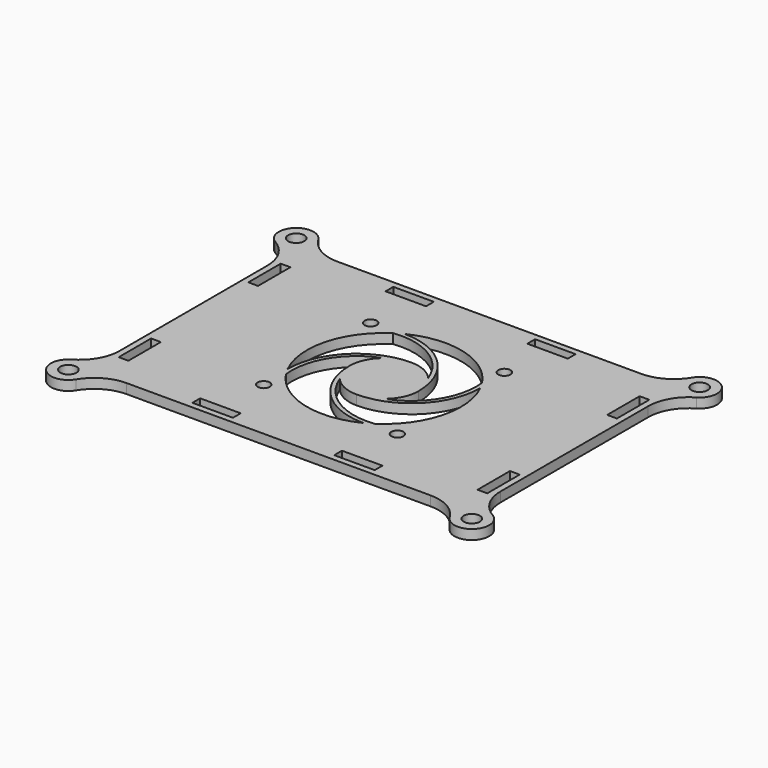
from build123d import *

# Parameters (mm, degrees)
F0_R     = 2
F0_W     = 2.4
F0_H     = 10
F0_W_2   = 10
F0_H_2   = 2.4
F0_R_2   = 1.5
F1_DEPTH = 2.4


with BuildPart() as f1:
    # F0 (on Top) → F1 (new body)
    with BuildSketch(Plane.XY):
        with BuildLine():
            ThreePointArc((46.111466, 37.36014), (42.463054, 33.799465), (37.533481, 32.5))
            Line((37.533481, 32.5), (-37.533481, 32.5))
            ThreePointArc((-37.533481, 32.5), (-42.463054, 33.799465), (-46.111466, 37.36014))
            ThreePointArc((-46.111466, 37.36014), (-52.859026, 38.171979), (-51.965035, 31.434812))
            ThreePointArc((-51.965035, 31.434812), (-48.329658, 27.777326), (-47, 22.794839))
            Line((-47, 22.794839), (-47, 0))
            Line((-47, 0), (-47, -22.794839))
            ThreePointArc((-47, -22.794839), (-48.329658, -27.777326), (-51.965035, -31.434812))
            ThreePointArc((-51.965035, -31.434812), (-52.859026, -38.171979), (-46.111466, -37.36014))
            ThreePointArc((-46.111466, -37.36014), (-42.463054, -33.799465), (-37.533481, -32.5))
            Line((-37.533481, -32.5), (37.533481, -32.5))
            ThreePointArc((37.533481, -32.5), (42.463054, -33.799465), (46.111466, -37.36014))
            ThreePointArc((46.111466, -37.36014), (52.859026, -38.171979), (51.965035, -31.434812))
            ThreePointArc((51.965035, -31.434812), (48.329658, -27.777326), (47, -22.794839))
            Line((47, -22.794839), (47, 22.794839))
            ThreePointArc((47, 22.794839), (48.329658, 27.777326), (51.965035, 31.434812))
            ThreePointArc((51.965035, 31.434812), (52.859026, 38.171979), (46.111466, 37.36014))
        make_face()
        with Locations((-49.8, -35.15)):
            Circle(F0_R, mode=Mode.SUBTRACT)
        with Locations((-44.3, -20)):
            Rectangle(F0_W, F0_H, mode=Mode.SUBTRACT)
        with Locations((-17.5, -29.8)):
            Rectangle(F0_W_2, F0_H_2, mode=Mode.SUBTRACT)
        with Locations((-16.49, -16.5)):
            Circle(F0_R_2, mode=Mode.SUBTRACT)
        with BuildLine():
            ThreePointArc((-15.883599, -10.426471), (-13.617771, -0.10022), (-5.406647, 6.558824))
            ThreePointArc((-5.406647, 6.558824), (-7.687864, 3.625845), (-8.5, 0))
            ThreePointArc((-8.5, 0), (-3.526013, -12.015615), (8.485294, -16.999994))
            ThreePointArc((8.485294, -16.999994), (-4.948387, -18.344303), (-15.883599, -10.426471))
        make_face(mode=Mode.SUBTRACT)
        with Locations((17.5, -29.8)):
            Rectangle(F0_W_2, F0_H_2, mode=Mode.SUBTRACT)
        with Locations((49.8, -35.15)):
            Circle(F0_R, mode=Mode.SUBTRACT)
        with Locations((44.3, -20)):
            Rectangle(F0_W, F0_H, mode=Mode.SUBTRACT)
        with Locations((16.51, -16.5)):
            Circle(F0_R_2, mode=Mode.SUBTRACT)
        with BuildLine():
            ThreePointArc((-6.558824, -5.406647), (-3.625845, -7.687864), (0, -8.5))
            ThreePointArc((0, -8.5), (12.015615, -3.526013), (16.999994, 8.485294))
            ThreePointArc((16.999994, 8.485294), (18.344303, -4.948387), (10.426471, -15.883599))
            ThreePointArc((10.426471, -15.883599), (0.10022, -13.617771), (-6.558824, -5.406647))
        make_face(mode=Mode.SUBTRACT)
        with BuildLine():
            ThreePointArc((-10.426471, 15.883599), (-0.10022, 13.617771), (6.558824, 5.406647))
            ThreePointArc((6.558824, 5.406647), (3.625845, 7.687864), (0, 8.5))
            ThreePointArc((0, 8.5), (-12.015615, 3.526013), (-16.999994, -8.485294))
            ThreePointArc((-16.999994, -8.485294), (-18.344303, 4.948387), (-10.426471, 15.883599))
        make_face(mode=Mode.SUBTRACT)
        with Locations((-16.49, 16.5)):
            Circle(F0_R_2, mode=Mode.SUBTRACT)
        with Locations((-44.3, 20)):
            Rectangle(F0_W, F0_H, mode=Mode.SUBTRACT)
        with Locations((-49.8, 35.15)):
            Circle(F0_R, mode=Mode.SUBTRACT)
        with Locations((-17.5, 29.8)):
            Rectangle(F0_W_2, F0_H_2, mode=Mode.SUBTRACT)
        with BuildLine():
            ThreePointArc((-8.485294, 16.999994), (4.948387, 18.344303), (15.883599, 10.426471))
            ThreePointArc((15.883599, 10.426471), (13.617771, 0.10022), (5.406647, -6.558824))
            ThreePointArc((5.406647, -6.558824), (7.687864, -3.625845), (8.5, 0))
            ThreePointArc((8.5, 0), (3.526013, 12.015615), (-8.485294, 16.999994))
        make_face(mode=Mode.SUBTRACT)
        with Locations((16.51, 16.5)):
            Circle(F0_R_2, mode=Mode.SUBTRACT)
        with Locations((17.5, 29.8)):
            Rectangle(F0_W_2, F0_H_2, mode=Mode.SUBTRACT)
        with Locations((44.3, 20)):
            Rectangle(F0_W, F0_H, mode=Mode.SUBTRACT)
        with Locations((49.8, 35.15)):
            Circle(F0_R, mode=Mode.SUBTRACT)
    extrude(amount=F1_DEPTH)


solid = f1.part
